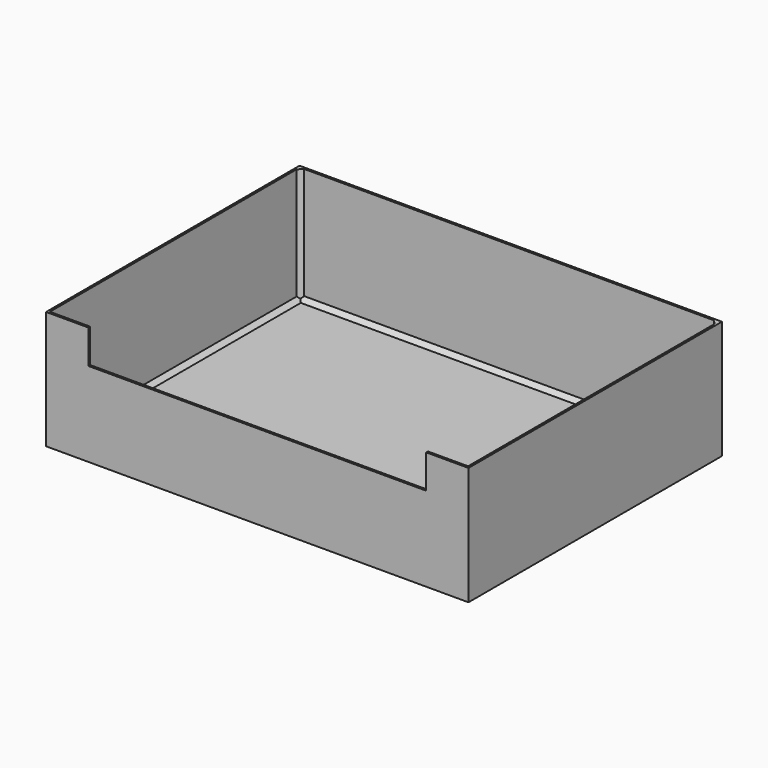
from build123d import *

# Parameters (mm, degrees)
BOX005_W        = 20
BOX005_H        = 1
BOX005_DEPTH    = 56
BOX006_W        = 20
BOX006_H        = 1
BOX006_DEPTH    = 56
BOX004_W        = 200
BOX004_H        = 1
BOX004_DEPTH    = 40
BOX002_W        = 1
BOX002_H        = 150
BOX002_DEPTH    = 56
BOX001_W        = 1
BOX001_H        = 150
BOX001_DEPTH    = 56
BOX_W           = 200
BOX_H           = 150
BOX_DEPTH       = 1
BOX003_W        = 200
BOX003_H        = 1
BOX003_DEPTH    = 56
CHAMFER_SIZE    = 2
CHAMFER001_SIZE = 2
CHAMFER002_SIZE = 2
CHAMFER003_SIZE = 2
CHAMFER004_SIZE = 2
CHAMFER005_SIZE = 2


with BuildPart() as cube005:
    # Box005 → Box005 (new body)
    with BuildSketch(Plane.XY):
        with Locations((10, 0.5)):
            Rectangle(BOX005_W, BOX005_H)
    extrude(amount=BOX005_DEPTH)


with BuildPart() as cube006:
    # Box006 → Box006 (new body)
    with BuildSketch(Plane(origin=(180, 0, 0), x_dir=(1, 0, 0), z_dir=(0, 0, 1))):
        with Locations((10, 0.5)):
            Rectangle(BOX006_W, BOX006_H)
    extrude(amount=BOX006_DEPTH)


with BuildPart() as cube004:
    # Box004 → Box004 (new body)
    with BuildSketch(Plane.XY):
        with Locations((100, 0.5)):
            Rectangle(BOX004_W, BOX004_H)
    extrude(amount=BOX004_DEPTH)


with BuildPart() as cube002:
    # Box002 → Box002 (new body)
    with BuildSketch(Plane(origin=(199, 0, 0), x_dir=(1, 0, 0), z_dir=(0, 0, 1))):
        with Locations((0.5, 75)):
            Rectangle(BOX002_W, BOX002_H)
    extrude(amount=BOX002_DEPTH)


with BuildPart() as cube001:
    # Box001 → Box001 (new body)
    with BuildSketch(Plane.XY):
        with Locations((0.5, 75)):
            Rectangle(BOX001_W, BOX001_H)
    extrude(amount=BOX001_DEPTH)


with BuildPart() as cube:
    # Box → Box (new body)
    with BuildSketch(Plane.XY):
        with Locations((100, 75)):
            Rectangle(BOX_W, BOX_H)
    extrude(amount=BOX_DEPTH)


with BuildPart() as fusion005:
    # Box003 → Box003 (new body)
    with BuildSketch(Plane(origin=(0, 149, 0), x_dir=(1, 0, 0), z_dir=(0, 0, 1))):
        with Locations((100, 0.5)):
            Rectangle(BOX003_W, BOX003_H)
    extrude(amount=BOX003_DEPTH)

    # Fusion: union Cube
    add(cube.part)

    # Fusion001: union Cube001
    add(cube001.part)

    # Fusion002: union Cube002
    add(cube002.part)

    # Fusion003: union Cube004
    add(cube004.part)

    # Chamfer
    chamfer_edges = [fusion005.edges().sort_by_distance(p)[0] for p in [
        (100, 149, 1),
    ]]
    chamfer(chamfer_edges, length=CHAMFER_SIZE)

    # Chamfer001
    chamfer001_edges = [fusion005.edges().sort_by_distance(p)[0] for p in [
        (1, 74, 1),
    ]]
    chamfer(chamfer001_edges, length=CHAMFER001_SIZE)

    # Chamfer002
    chamfer002_edges = [fusion005.edges().sort_by_distance(p)[0] for p in [
        (199, 74, 1),
    ]]
    chamfer(chamfer002_edges, length=CHAMFER002_SIZE)

    # Chamfer003
    chamfer003_edges = [fusion005.edges().sort_by_distance(p)[0] for p in [
        (1, 149, 29.5),
    ]]
    chamfer(chamfer003_edges, length=CHAMFER003_SIZE)

    # Chamfer004
    chamfer004_edges = [fusion005.edges().sort_by_distance(p)[0] for p in [
        (199, 149, 29.5),
    ]]
    chamfer(chamfer004_edges, length=CHAMFER004_SIZE)

    # Chamfer005
    chamfer005_edges = [fusion005.edges().sort_by_distance(p)[0] for p in [
        (100, 1, 1),
    ]]
    chamfer(chamfer005_edges, length=CHAMFER005_SIZE)

    # Fusion004: union Cube006
    add(cube006.part)

    # Fusion005: union Cube005
    add(cube005.part)


solid = fusion005.part
